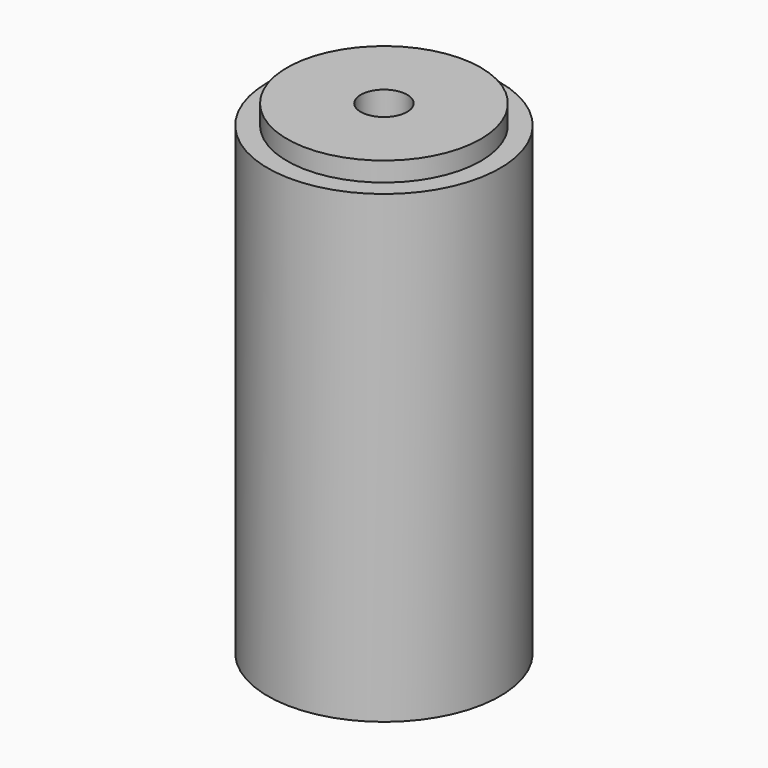
from build123d import *

# Parameters (mm, degrees)
F0_W     = 29.9997191348
F0_H     = 120
F2_R     = 25
F3_DEPTH = 120.001
F4_R     = 5
F5_DEPTH = 120.001
F7_R     = 25
F7_R_2   = 6
F8_DEPTH = 25


with BuildPart() as f1:
    # F0 (on Front) → F1 (revolve)
    with BuildSketch(Plane.XZ):
        with Locations((-14.9998595674, 60)):
            Rectangle(F0_W, F0_H)
    revolve(axis=Axis((0, 0, 60), (0, 0, 1)))

    # F2 (on Top) → F3 (cut, through all)
    with BuildSketch(Plane.XY):
        Circle(F2_R)
    extrude(amount=F3_DEPTH, mode=Mode.SUBTRACT)

    # F4 (on Top) → F5 (cut, through all)
    with BuildSketch(Plane.XY):
        Circle(F4_R)
    extrude(amount=F5_DEPTH, mode=Mode.SUBTRACT)


with BuildPart() as f8:
    # F7 (on offset) → F8 (new body)
    with BuildSketch(Plane.XY.offset(100)):
        Circle(F7_R)
        Circle(F7_R_2, mode=Mode.SUBTRACT)
    extrude(amount=F8_DEPTH)


solid = Compound([f1.part, f8.part])
